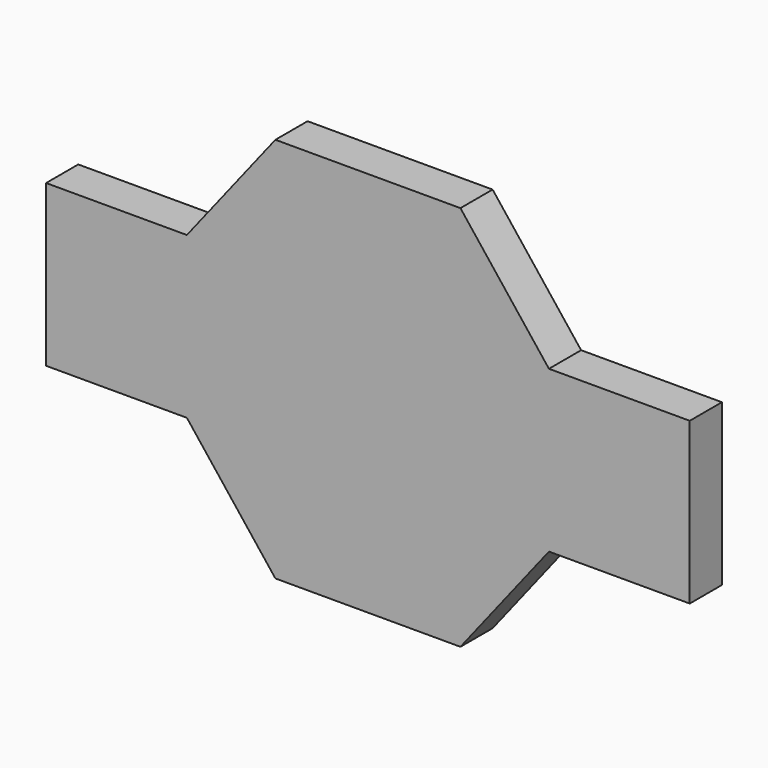
from build123d import *

# Parameters (mm, degrees)
F0_R     = 200
F1_DEPTH = 50


with BuildPart() as f1:
    # F0 (on Front) → F1 (new body)
    with BuildSketch(Plane.XZ):
        Polygon((-400, 100), (-400, 0), (-400, -100), (-225, -100), (-115, -240), (0, -240), (115, -240), (225, -100), (400, -100), (400, 0), (400, 100), (225, 100), (115, 240), (0, 240), (-115, 240), (-225, 100), align=None)
        Circle(F0_R, mode=Mode.SUBTRACT)
        Circle(F0_R)
    extrude(amount=F1_DEPTH)


solid = f1.part
